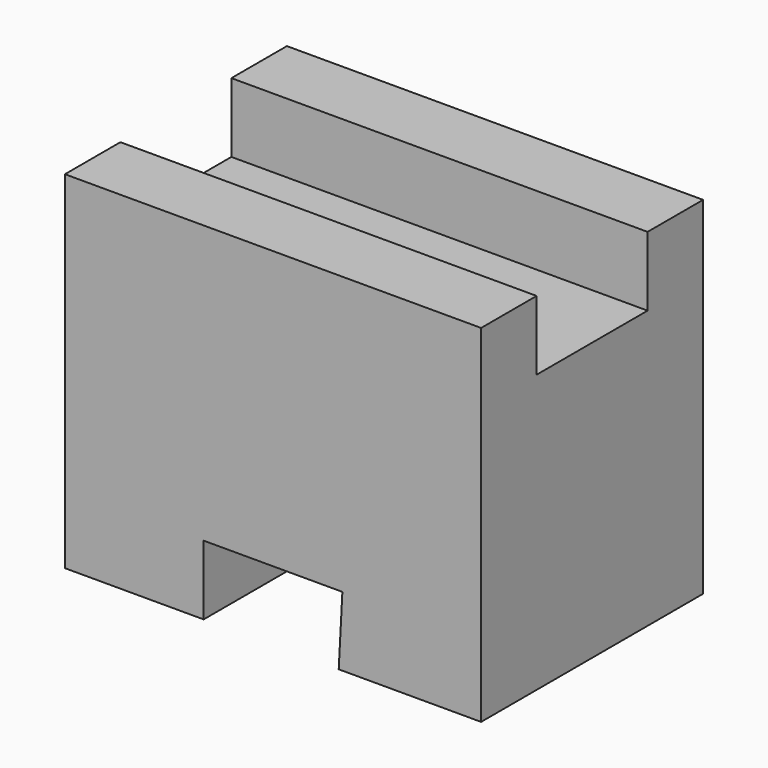
from build123d import *

# Parameters (mm, degrees)
F1_DEPTH = 38.1
F3_DEPTH = 25.4


with BuildPart() as f1:
    # F0 (on Right) → F1 (new body)
    with BuildSketch(Plane.YZ):
        Polygon((0, 31.75), (0, 0), (25.4, 0), (25.4, 31.75), (19.05, 31.75), (19.05, 25.4), (6.35, 25.4), (6.35, 31.75), align=None)
    extrude(amount=F1_DEPTH)

    # F2 (on face) → F3 (cut, through all)
    with BuildSketch(Plane.XZ):
        Polygon((12.7, 6.35), (12.7, 0), (25.064934, 0), (25.4, 6.35), align=None)
    extrude(amount=-F3_DEPTH, mode=Mode.SUBTRACT)


solid = f1.part
